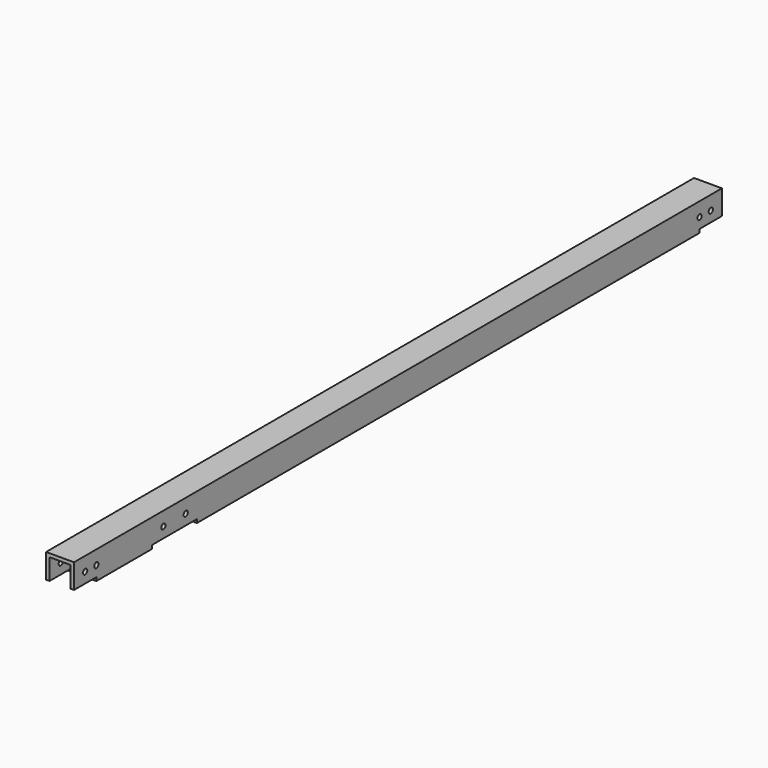
from build123d import *

# Parameters (mm, degrees)
F1_DEPTH = 368.3
F2_R     = 1.190625
F3_DEPTH = 12.701
F4_W     = 12.7
F4_H     = 25.4
F4_H_2   = 12.7
F5_DEPTH = 1.5875


with BuildPart() as f1:
    # F0 (on Front) → F1 (new body)
    with BuildSketch(Plane.XZ):
        Polygon((0, 4.7625), (4.7625, 4.7625), (4.7625, 0), (6.35, 0), (6.35, 6.35), (0, 6.35), align=None)
        Polygon((-4.7625, 4.7625), (0, 4.7625), (0, 6.35), (-6.35, 6.35), (-6.35, -6.35), (6.35, -6.35), (6.35, 0), (4.7625, 0), (4.7625, -4.7625), (-4.7625, -4.7625), align=None)
    extrude(amount=F1_DEPTH)

    # F2 (on face) → F3 (cut, through all)
    with BuildSketch(Plane.YZ.offset(6.35)):
        with Locations((-317.5, 0)):
            Circle(F2_R)
        with Locations((-304.8, 0)):
            Circle(F2_R)
        with Locations((-361.95, 0)):
            Circle(F2_R)
        with Locations((-355.6, 0)):
            Circle(F2_R)
        with Locations((-6.35, 0)):
            Circle(F2_R)
        with Locations((-12.7, 0)):
            Circle(F2_R)
    extrude(amount=-F3_DEPTH, mode=Mode.SUBTRACT)

    # F4 (on face) → F5 (cut, through all)
    with BuildSketch(Plane(origin=(0, 0, -6.35), x_dir=(1, 0, 0), z_dir=(0, 0, -1))):
        with Locations((0, 311.15)):
            Rectangle(F4_W, F4_H)
        with Locations((0, 361.95)):
            Rectangle(F4_W, F4_H_2)
        with Locations((0, 6.35)):
            Rectangle(F4_W, F4_H_2)
    extrude(amount=-F5_DEPTH, mode=Mode.SUBTRACT)


solid = f1.part
